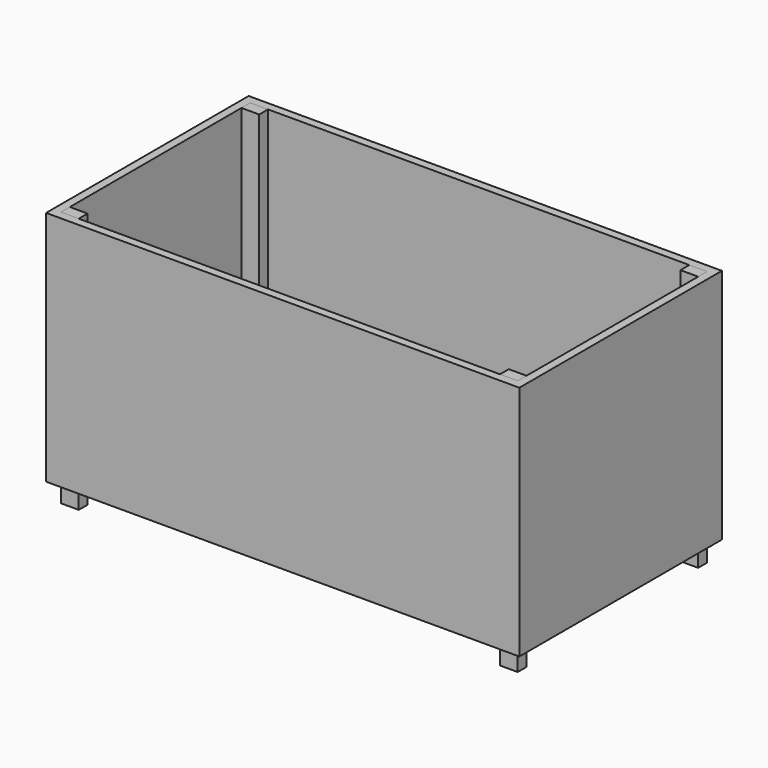
from build123d import *

# Parameters (mm, degrees)
F0_W     = 21
F0_H     = 600
F1_DEPTH = 600
F2_W     = 45
F2_H     = 28
F3_DEPTH = 600
F4_DEPTH = 50


with BuildPart() as f1:
    # F0 (on Top) → F1 (new body)
    with BuildSketch(Plane.XY):
        with Locations((-505.91643, 143.455748)):
            Rectangle(F0_W, F0_H)
        Polygon((-495.41643, -156.544252), (-516.41643, -156.544252), (-516.41643, -177.544252), (683.58357, -177.544252), (683.58357, -156.544252), (662.58357, -156.544252), align=None)
        Polygon((-516.41643, 464.455748), (-516.41643, 443.455748), (-495.41643, 443.455748), (662.58357, 443.455748), (683.58357, 443.455748), (683.58357, 464.455748), align=None)
        with Locations((673.08357, 143.455748)):
            Rectangle(F0_W, F0_H)
    extrude(amount=F1_DEPTH)


with BuildPart() as f3:
    # F2 (on Top) → F3 (new body)
    with BuildSketch(Plane.XY):
        with Locations((-472.91643, 429.455748)):
            Rectangle(F2_W, F2_H)
        with Locations((640.08357, 429.455748)):
            Rectangle(F2_W, F2_H)
        with Locations((640.08357, -142.544252)):
            Rectangle(F2_W, F2_H)
        with Locations((-472.91643, -142.544252)):
            Rectangle(F2_W, F2_H)
    extrude(amount=F3_DEPTH)


with BuildPart() as f4:
    # F2 (on Top) → F4 (new body)
    with BuildSketch(Plane.XY):
        with Locations((-472.91643, 429.455748)):
            Rectangle(F2_W, F2_H)
        with Locations((640.08357, 429.455748)):
            Rectangle(F2_W, F2_H)
        with Locations((640.08357, -142.544252)):
            Rectangle(F2_W, F2_H)
        with Locations((-472.91643, -142.544252)):
            Rectangle(F2_W, F2_H)
    extrude(amount=-F4_DEPTH)


solid = Compound([f1.part, f3.part, f4.part])
